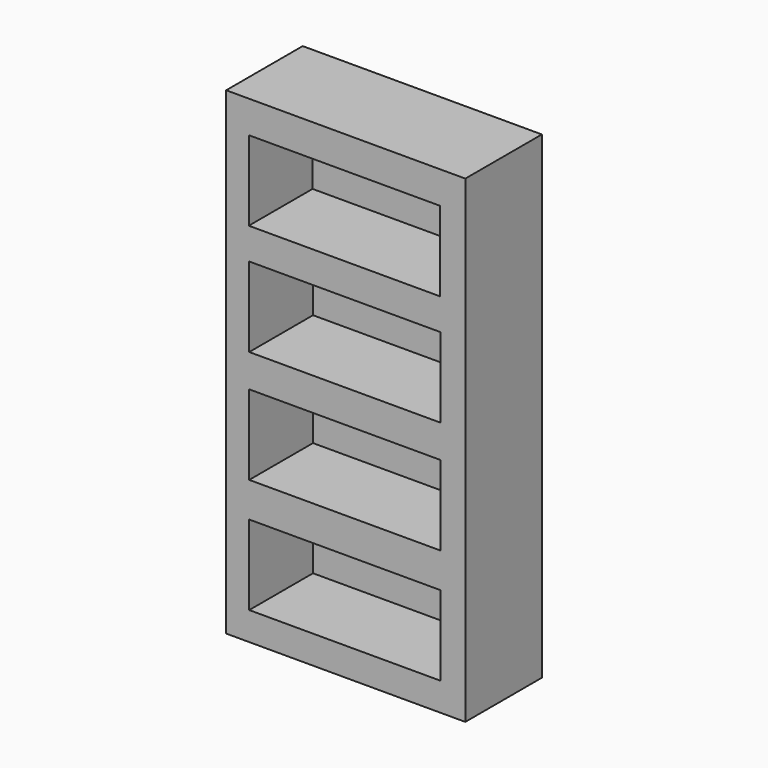
from build123d import *

# Parameters (mm, degrees)
F0_W     = 38.1
F0_H     = 76.2
F1_DEPTH = 15.24
F2_W     = 30.48
F2_H     = 12.7
F3_DEPTH = 12.7


with BuildPart() as f1:
    # F0 (on Front) → F1 (new body)
    with BuildSketch(Plane.XZ):
        with Locations((19.05, 38.1)):
            Rectangle(F0_W, F0_H)
    extrude(amount=F1_DEPTH)

    # F2 (on face) → F3 (cut)
    with BuildSketch(Plane.XZ.offset(15.24)):
        with Locations((18.9144, 47.031553)):
            Rectangle(F2_W, F2_H)
        with Locations((18.9144, 29.099608)):
            Rectangle(F2_W, F2_H)
        with Locations((18.9144, 10.842167)):
            Rectangle(F2_W, F2_H)
        with Locations((18.84441, 64.723954)):
            Rectangle(F2_W, F2_H)
    extrude(amount=-F3_DEPTH, mode=Mode.SUBTRACT)


solid = f1.part
